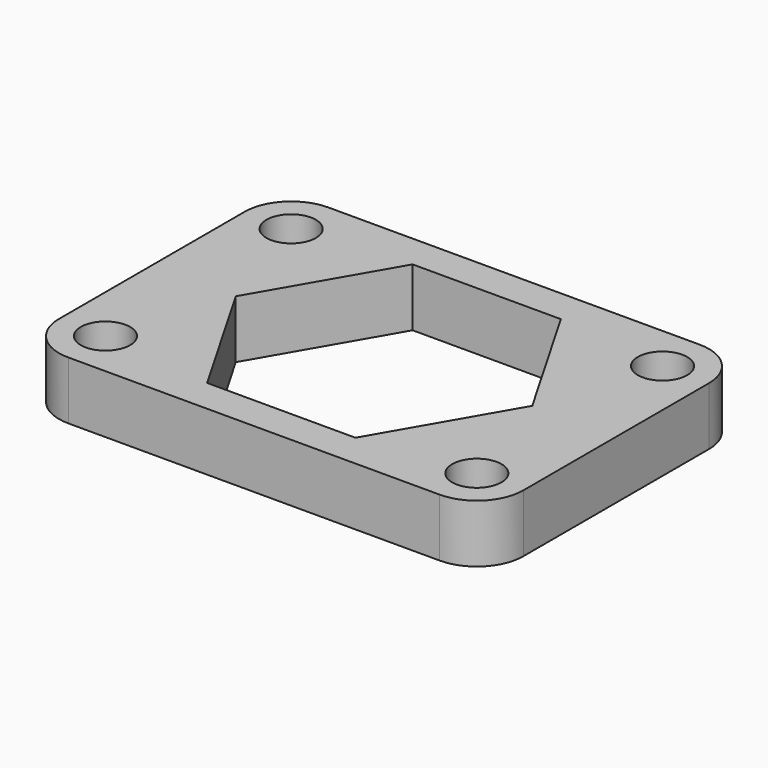
from build123d import *

# Parameters (mm, degrees)
PAD_DEPTH       = 3.175
SKETCH001_R     = 1.35
POCKET_DEPTH    = 3.176
POCKET001_DEPTH = 3.176


with BuildPart() as part:
    # Sketch → Pad (new body)
    with BuildSketch(Plane.XY):
        with BuildLine():
            ThreePointArc((-10.16, 8.89), (-11.956051, 8.146051), (-12.7, 6.35))
            Line((-12.7, -6.35), (-12.7, 6.35))
            ThreePointArc((-12.7, -6.35), (-11.956051, -8.146051), (-10.16, -8.89))
            Line((10.16, -8.89), (-10.16, -8.89))
            ThreePointArc((10.16, -8.89), (11.956051, -8.146051), (12.7, -6.35))
            Line((12.7, 6.35), (12.7, -6.35))
            ThreePointArc((12.7, 6.35), (11.956051, 8.146051), (10.16, 8.89))
            Line((-10.16, 8.89), (10.16, 8.89))
        make_face()
    extrude(amount=PAD_DEPTH)

    # Sketch001 → Pocket (cut, through all)
    with BuildSketch(Plane.XY):
        with Locations((-10.16, 6.35)):
            Circle(SKETCH001_R)
        with Locations((-10.16, -6.35)):
            Circle(SKETCH001_R)
        with Locations((10.16, 6.35)):
            Circle(SKETCH001_R)
        with Locations((10.16, -6.35)):
            Circle(SKETCH001_R)
    extrude(amount=POCKET_DEPTH, mode=Mode.SUBTRACT)

    # Sketch002 → Pocket001 (cut, through all)
    with BuildSketch(Plane.XY):
        Polygon((4.055886, -7.025), (8.111771, 0), (4.055886, 7.025), (-4.055886, 7.025), (-8.111771, 0), (-4.055886, -7.025), align=None)
    extrude(amount=POCKET001_DEPTH, mode=Mode.SUBTRACT)


solid = part.part
